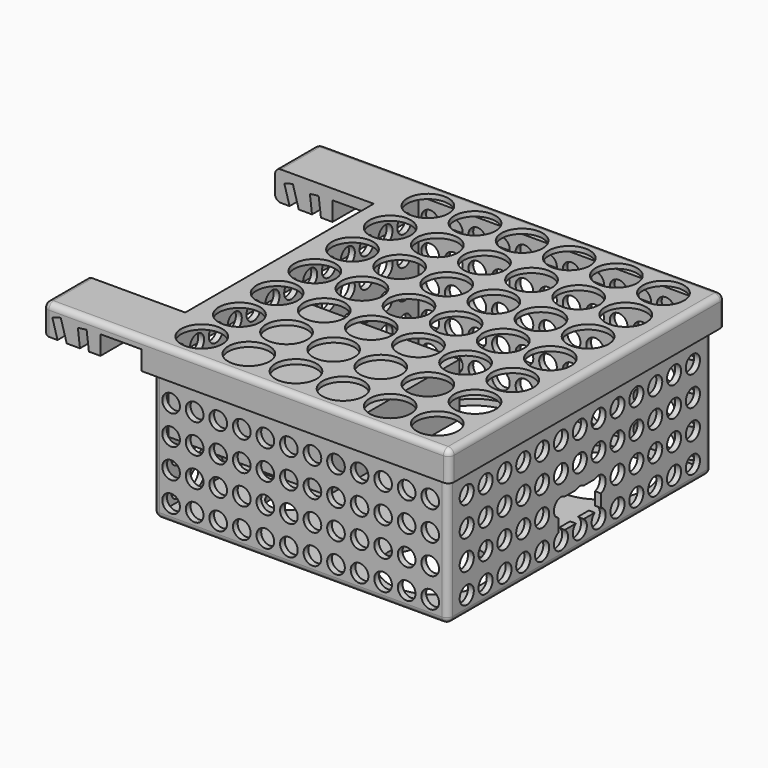
from build123d import *

# Parameters (mm, degrees)
BOX001_W                = 28
BOX001_H                = 28
BOX001_DEPTH            = 9
CYLINDER001_R           = 7.75
CYLINDER001_DEPTH       = 21
CYLINDER_R              = 7.75
CYLINDER_DEPTH          = 21
CYLINDER003_R           = 3
CYLINDER003_DEPTH       = 6
CYLINDER002_R           = 7.75
CYLINDER002_DEPTH       = 21
BOX004_W                = 44
BOX004_H                = 9
BOX004_DEPTH            = 5
BOX_W                   = 44
BOX_H                   = 18
BOX_DEPTH               = 4.5
BOX005_W                = 5
BOX005_H                = 22
BOX005_DEPTH            = 4.5
CYLINDER005_R           = 1.5
CYLINDER005_DEPTH       = 90
CYLINDER005_PITCH_ANGLE = 90
ARRAY001_Y_COUNT        = 13
ARRAY001_Y_PITCH        = 4
ARRAY001_Z_COUNT        = 5
ARRAY001_Z_PITCH        = 5
CYLINDER004_R           = 1.5
CYLINDER004_DEPTH       = 90
CYLINDER004_ROLL_ANGLE  = 90
ARRAY_X_COUNT           = 12
ARRAY_X_PITCH           = 4
ARRAY_Z_COUNT           = 5
ARRAY_Z_PITCH           = 5
BOX002_W                = 48
BOX002_H                = 54
BOX002_DEPTH            = 28
BOX003_W                = 50
BOX003_H                = 56
BOX003_DEPTH            = 26
FILLET_R                = 1
BOX011_W                = 20
BOX011_H                = 40
BOX011_DEPTH            = 40
BOX010_W                = 7
BOX010_H                = 100
BOX010_DEPTH            = 72.25
CYLINDER006_R           = 3.5
CYLINDER006_DEPTH       = 8
ARRAY002_X_COUNT        = 6
ARRAY002_X_PITCH        = 8
ARRAY002_Y_COUNT        = 7
ARRAY002_Y_PITCH        = 8
BOX009_W                = 1.5
BOX009_H                = 100
BOX009_DEPTH            = 75
BOX009_PITCH_ANGLE      = -16
BOX008_W                = 1.5
BOX008_H                = 100
BOX008_DEPTH            = 72.5
BOX008_PITCH_ANGLE      = -7
BOX006_W                = 50.5
BOX006_H                = 56.5
BOX006_DEPTH            = 4.2
BOX007_W                = 69
BOX007_H                = 58.5
BOX007_DEPTH            = 5
FILLET001_R             = 1


with BuildPart() as obj1:
    # Box001 → Box001 (new body)
    with BuildSketch(Plane(origin=(-25, -26, -1.5), x_dir=(1, 0, 0), z_dir=(0, 0, 1))):
        with Locations((14, 14)):
            Rectangle(BOX001_W, BOX001_H)
    extrude(amount=BOX001_DEPTH)


with BuildPart() as dummy_button001:
    # Cylinder001 → Cylinder001 (new body)
    with BuildSketch(Plane(origin=(-7, 17.5, -13.5), x_dir=(1, 0, 0), z_dir=(0, 0, 1))):
        Circle(CYLINDER001_R)
    extrude(amount=CYLINDER001_DEPTH)


with BuildPart() as dummy_button:
    # Cylinder → Cylinder (new body)
    with BuildSketch(Plane(origin=(14.5, -17.5, -13.5), x_dir=(1, 0, 0), z_dir=(0, 0, 1))):
        Circle(CYLINDER_R)
    extrude(amount=CYLINDER_DEPTH)


with BuildPart() as hole:
    # Cylinder003 → Cylinder003 (new body)
    with BuildSketch(Plane(origin=(-13, -14.5, -15.5), x_dir=(1, 0, 0), z_dir=(0, 0, 1))):
        Circle(CYLINDER003_R)
    extrude(amount=CYLINDER003_DEPTH)


with BuildPart() as buttons_hole:
    # Cylinder002 → Cylinder002 (new body)
    with BuildSketch(Plane(origin=(14.5, 17.5, -13.5), x_dir=(1, 0, 0), z_dir=(0, 0, 1))):
        Circle(CYLINDER002_R)
    extrude(amount=CYLINDER002_DEPTH)

    # Fusion001: union Dummy_Button001, Dummy_Button, Hole
    add(dummy_button001.part)
    add(dummy_button.part)
    add(hole.part)


with BuildPart() as dummy_arduino_usb:
    # Box004 → Box004 (new body)
    with BuildSketch(Plane(origin=(-13, -4.5, -8.75), x_dir=(1, 0, 0), z_dir=(0, 0, 1))):
        with Locations((22, 4.5)):
            Rectangle(BOX004_W, BOX004_H)
    extrude(amount=BOX004_DEPTH)


with BuildPart() as obj2:
    # Box → Box (new body)
    with BuildSketch(Plane(origin=(-20, -9, -11.75), x_dir=(1, 0, 0), z_dir=(0, 0, 1))):
        with Locations((22, 9)):
            Rectangle(BOX_W, BOX_H)
    extrude(amount=BOX_DEPTH)

    # Fusion: union dummy arduino_usb
    add(dummy_arduino_usb.part)


with BuildPart() as soporte_top_arduino:
    # Box005 → Box005 (new body)
    with BuildSketch(Plane(origin=(-21, -11, -11.75), x_dir=(1, 0, 0), z_dir=(0, 0, 1))):
        with Locations((2.5, 11)):
            Rectangle(BOX005_W, BOX005_H)
    extrude(amount=BOX005_DEPTH)


with BuildPart() as array001:
    # Cylinder005 → Cylinder005 (new body)
    with BuildSketch(Plane.XY):
        Circle(CYLINDER005_R)
    extrude(amount=CYLINDER005_DEPTH)


with BuildPart() as array001_1:
    # Cylinder005 pitch: moved
    add(array001.part.rotate(Axis((0, 0, 0), (0, 1, 0)), CYLINDER005_PITCH_ANGLE))


with BuildPart() as array001_2:
    # Cylinder005 placement: moved
    add(array001_1.part.moved(Location((-42, -24, -10))))

    # Array001 Y: Array001 ×13


with BuildPart() as array001_3:
    add(array001_2.part)
    with Locations(*[(0, i * ARRAY001_Y_PITCH, 0) for i in range(1, ARRAY001_Y_COUNT)]):
        add(array001_2.part)

    # Array001 Z: Array001 ×5


with BuildPart() as array001_4:
    add(array001_3.part)
    with Locations(*[(0, 0, i * ARRAY001_Z_PITCH) for i in range(1, ARRAY001_Z_COUNT)]):
        add(array001_3.part)


with BuildPart() as holes:
    # Cylinder004 → Cylinder004 (new body)
    with BuildSketch(Plane.XY):
        Circle(CYLINDER004_R)
    extrude(amount=CYLINDER004_DEPTH)


with BuildPart() as holes_1:
    # Cylinder004 roll: moved
    add(holes.part.rotate(Axis((0, 0, 0), (1, 0, 0)), CYLINDER004_ROLL_ANGLE))


with BuildPart() as holes_2:
    # Cylinder004 placement: moved
    add(holes_1.part.moved(Location((22, 45, 10))))

    # Array X: holes ×12


with BuildPart() as holes_3:
    add(holes_2.part)
    with Locations(*[(-i * ARRAY_X_PITCH, 0, 0) for i in range(1, ARRAY_X_COUNT)]):
        add(holes_2.part)

    # Array Z: holes ×5


with BuildPart() as holes_4:
    add(holes_3.part)
    with Locations(*[(0, 0, -i * ARRAY_Z_PITCH) for i in range(1, ARRAY_Z_COUNT)]):
        add(holes_3.part)

    # Fusion002: union Array001
    add(array001_4.part)


with BuildPart() as box_int:
    # Box002 → Box002 (new body)
    with BuildSketch(Plane(origin=(-24, -27, -12), x_dir=(1, 0, 0), z_dir=(0, 0, 1))):
        with Locations((24, 27)):
            Rectangle(BOX002_W, BOX002_H)
    extrude(amount=BOX002_DEPTH)


with BuildPart() as fillet_body:
    # Box003 → Box003 (new body)
    with BuildSketch(Plane(origin=(-25, -28, -13), x_dir=(1, 0, 0), z_dir=(0, 0, 1))):
        with Locations((25, 28)):
            Rectangle(BOX003_W, BOX003_H)
    extrude(amount=BOX003_DEPTH)

    # Cut: cut box_int
    add(box_int.part, mode=Mode.SUBTRACT)

    # Cut001: cut holes
    add(holes_4.part, mode=Mode.SUBTRACT)

    # Fusion003: union soporte_top_arduino
    add(soporte_top_arduino.part)

    # Cut002: cut obj2
    add(obj2.part, mode=Mode.SUBTRACT)

    # Cut003: cut buttons_hole
    add(buttons_hole.part, mode=Mode.SUBTRACT)

    # Fillet
    fillet_edges = [fillet_body.edges().sort_by_distance(p)[0] for p in [
        (-25, -28, 0),
        (-25, 0, -13),
        (-25, 28, 0),
        (0, -28, -13),
        (25, -28, 0),
        (0, 28, -13),
        (25, 0, -13),
        (25, 28, 0),
    ]]
    fillet(fillet_edges, radius=FILLET_R)


with BuildPart() as cube003:
    # Box011 → Box011 (new body)
    with BuildSketch(Plane(origin=(-46, -20, -15), x_dir=(1, 0, 0), z_dir=(0, 0, 1))):
        with Locations((10, 20)):
            Rectangle(BOX011_W, BOX011_H)
    extrude(amount=BOX011_DEPTH)


with BuildPart() as cube002:
    # Box010 → Box010 (new body)
    with BuildSketch(Plane(origin=(-33, -50, -60), x_dir=(1, 0, 0), z_dir=(0, 0, 1))):
        with Locations((3.5, 50)):
            Rectangle(BOX010_W, BOX010_H)
    extrude(amount=BOX010_DEPTH)


with BuildPart() as array002:
    # Cylinder006 → Cylinder006 (new body)
    with BuildSketch(Plane(origin=(-20, 24, 10), x_dir=(1, 0, 0), z_dir=(0, 0, 1))):
        Circle(CYLINDER006_R)
    extrude(amount=CYLINDER006_DEPTH)

    # Array002 X: Array002 ×6


with BuildPart() as array002_1:
    add(array002.part)
    with Locations(*[(i * ARRAY002_X_PITCH, 0, 0) for i in range(1, ARRAY002_X_COUNT)]):
        add(array002.part)

    # Array002 Y: Array002 ×7


with BuildPart() as array002_2:
    add(array002_1.part)
    with Locations(*[(0, -i * ARRAY002_Y_PITCH, 0) for i in range(1, ARRAY002_Y_COUNT)]):
        add(array002_1.part)


with BuildPart() as cube001:
    # Box009 → Box009 (new body)
    with BuildSketch(Plane.XY):
        with Locations((0.75, 50)):
            Rectangle(BOX009_W, BOX009_H)
    extrude(amount=BOX009_DEPTH)


with BuildPart() as cube001_1:
    # Box009 pitch: moved
    add(cube001.part.rotate(Axis((0, 0, 0), (0, 1, 0)), BOX009_PITCH_ANGLE))


with BuildPart() as cube001_2:
    # Box009 placement: moved
    add(cube001_1.part.moved(Location((-20.5, -50, -60))))


with BuildPart() as fusion004:
    # Box008 → Box008 (new body)
    with BuildSketch(Plane.XY):
        with Locations((0.75, 50)):
            Rectangle(BOX008_W, BOX008_H)
    extrude(amount=BOX008_DEPTH)


with BuildPart() as fusion004_1:
    # Box008 pitch: moved
    add(fusion004.part.rotate(Axis((0, 0, 0), (0, 1, 0)), BOX008_PITCH_ANGLE))


with BuildPart() as fusion004_2:
    # Box008 placement: moved
    add(fusion004_1.part.moved(Location((-28, -50, -60))))

    # Fusion004: union Cube001
    add(cube001_2.part)


with BuildPart() as box_int001:
    # Box006 → Box006 (new body)
    with BuildSketch(Plane(origin=(-25.25, -28.25, 9), x_dir=(1, 0, 0), z_dir=(0, 0, 1))):
        with Locations((25.25, 28.25)):
            Rectangle(BOX006_W, BOX006_H)
    extrude(amount=BOX006_DEPTH)


with BuildPart() as cut008:
    # Box007 → Box007 (new body)
    with BuildSketch(Plane(origin=(-42.75, -29.25, 9), x_dir=(1, 0, 0), z_dir=(0, 0, 1))):
        with Locations((34.5, 29.25)):
            Rectangle(BOX007_W, BOX007_H)
    extrude(amount=BOX007_DEPTH)

    # Cut004: cut box_int001
    add(box_int001.part, mode=Mode.SUBTRACT)

    # Cut005: cut Fusion004
    add(fusion004_2.part, mode=Mode.SUBTRACT)

    # Cut006: cut Array002
    add(array002_2.part, mode=Mode.SUBTRACT)

    # Fillet001
    fillet001_edges = [cut008.edges().sort_by_distance(p)[0] for p in [
        (-42.75, -29.25, 11.5),
        (-42.75, 0, 14),
        (-42.75, 29.25, 11.5),
        (-42.75, 0, 9),
        (26.25, -29.25, 11.5),
        (-8.25, -29.25, 14),
        (-8.25, 29.25, 14),
        (26.25, 0, 14),
        (26.25, 29.25, 11.5),
    ]]
    fillet(fillet001_edges, radius=FILLET001_R)

    # Cut007: cut Cube002
    add(cube002.part, mode=Mode.SUBTRACT)

    # Cut008: cut Cube003
    add(cube003.part, mode=Mode.SUBTRACT)


solid = Compound([obj1.part, fillet_body.part, cut008.part])
